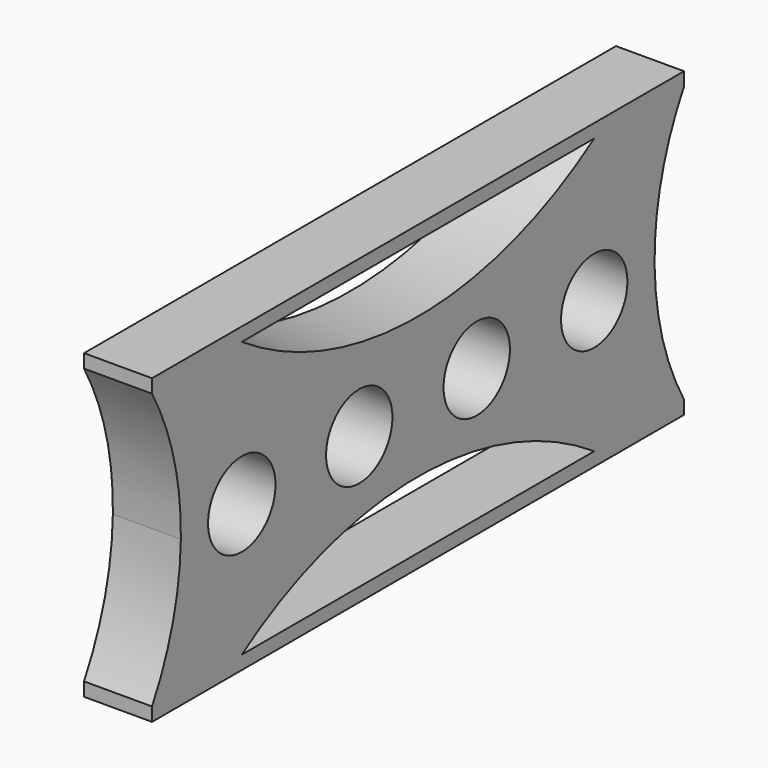
from build123d import *

# Parameters (mm, degrees)
F1_DEPTH = 5


with BuildPart() as f1:
    # F0 (on Right) → F1 (new body, symmetric)
    with BuildSketch(Plane.YZ):
        Polygon((36.402273, 20.625), (14.802273, 20.625), (-61.397727, 20.625), (-61.397727, 18.625), (-44.897727, 18.625), (14.802273, 18.625), (19.902273, 18.625), (36.402273, 18.625), align=None)
        Polygon((-44.897727, -21.875), (-61.397727, -21.875), (-61.397727, -23.875), (14.802273, -23.875), (36.402273, -23.875), (36.402273, -21.875), (19.902273, -21.875), (14.802273, -21.875), align=None)
        with BuildLine():
            Line((-51.097727, -2.375), (-56.097727, -2.375))
            ThreePointArc((-56.097727, -2.375), (-57.536362, -12.454243), (-61.397727, -21.875))
            Line((-61.397727, -21.875), (-44.897727, -21.875))
            ThreePointArc((-44.897727, -21.875), (-12.497727, -11.981548), (19.902273, -21.875))
            Line((19.902273, -21.875), (36.402273, -21.875))
            ThreePointArc((36.402273, -21.875), (32.468766, -12.466587), (31.002273, -2.375))
            Line((31.002273, -2.375), (26.002273, -2.375))
            ThreePointArc((26.002273, -2.375), (19.902273, -8.475), (13.802273, -2.375))
            Line((13.802273, -2.375), (4.402273, -2.375))
            ThreePointArc((4.402273, -2.375), (-1.697727, -8.475), (-7.797727, -2.375))
            Line((-7.797727, -2.375), (-17.197727, -2.375))
            ThreePointArc((-17.197727, -2.375), (-23.297727, -8.475), (-29.397727, -2.375))
            Line((-29.397727, -2.375), (-38.697727, -2.375))
            ThreePointArc((-38.697727, -2.375), (-44.897727, -8.575), (-51.097727, -2.375))
        make_face()
        with BuildLine():
            Line((-44.897727, 18.625), (-61.397727, 18.625))
            ThreePointArc((-61.397727, 18.625), (-57.346226, 8.478712), (-56.097727, -2.375))
            Line((-56.097727, -2.375), (-51.097727, -2.375))
            ThreePointArc((-51.097727, -2.375), (-44.897727, 3.825), (-38.697727, -2.375))
            Line((-38.697727, -2.375), (-29.397727, -2.375))
            ThreePointArc((-29.397727, -2.375), (-23.297727, 3.725), (-17.197727, -2.375))
            Line((-17.197727, -2.375), (-7.797727, -2.375))
            ThreePointArc((-7.797727, -2.375), (-1.697727, 3.725), (4.402273, -2.375))
            Line((4.402273, -2.375), (13.802273, -2.375))
            ThreePointArc((13.802273, -2.375), (19.902273, 3.725), (26.002273, -2.375))
            Line((26.002273, -2.375), (31.002273, -2.375))
            ThreePointArc((31.002273, -2.375), (32.275279, 8.491941), (36.402273, 18.625))
            Line((36.402273, 18.625), (19.902273, 18.625))
            ThreePointArc((19.902273, 18.625), (-12.497727, 8.731548), (-44.897727, 18.625))
        make_face()
    extrude(amount=F1_DEPTH, both=True)


solid = f1.part
